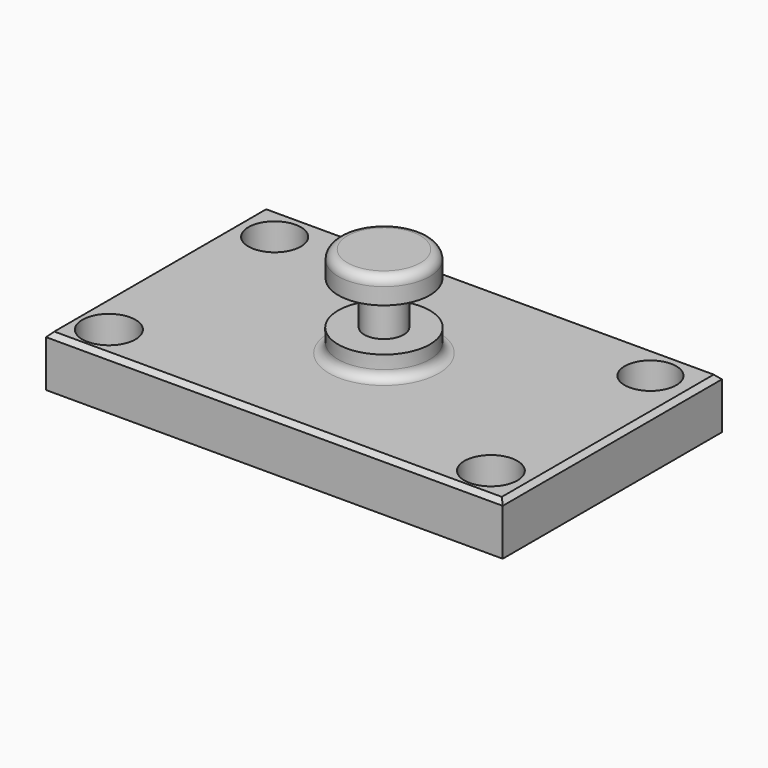
from build123d import *

# Parameters (mm, degrees)
F0_W     = 127
F0_H     = 76.2
F1_DEPTH = 14.224
F2_R     = 7.295041
F2_R_2   = 7.180955
F2_R_3   = 7.370116
F2_R_4   = 7.39498
F3_DEPTH = 27.94
F6_R     = 2.54
F7_SIZE  = 1.27


with BuildPart() as f1:
    # F0 (on Top) → F1 (new body)
    with BuildSketch(Plane.XY):
        Rectangle(F0_W, F0_H)
    extrude(amount=F1_DEPTH)

    # F2 (on Top) → F3 (cut)
    with BuildSketch(Plane.XY):
        with Locations((-52.690696, 27.844677)):
            Circle(F2_R)
        with Locations((51.833939, 27.844677)):
            Circle(F2_R_2)
        with Locations((52.6907, -28.701432)):
            Circle(F2_R_3)
        with Locations((-53.547453, -28.701432)):
            Circle(F2_R_4)
    extrude(amount=F3_DEPTH, mode=Mode.SUBTRACT)

    # F4 (on Front) → F5 (revolve)
    with BuildSketch(Plane.XZ):
        Polygon((12.7, 39.624), (0, 39.624), (0, 14.224), (12.7, 14.224), (12.776617, 20.498227), (5.493246, 20.498227), (5.493246, 25.638863), (5.493246, 32.492936), (12.7, 32.492936), align=None)
    revolve(axis=Axis((0, 0, 26.924), (0, 0, -1)))

    # F6
    f6_edges = [f1.edges().sort_by_distance(p)[0] for p in [
        (-12.7, 0, 39.624),
        (-12.7, 0, 14.224),
    ]]
    fillet(f6_edges, radius=F6_R)

    # F7
    f7_edges = [f1.edges().sort_by_distance(p)[0] for p in [
        (0, -38.1, 14.224),
        (63.5, 0, 14.224),
        (0, 38.1, 14.224),
        (-63.5, 0, 14.224),
    ]]
    chamfer(f7_edges, length=F7_SIZE)


solid = f1.part
